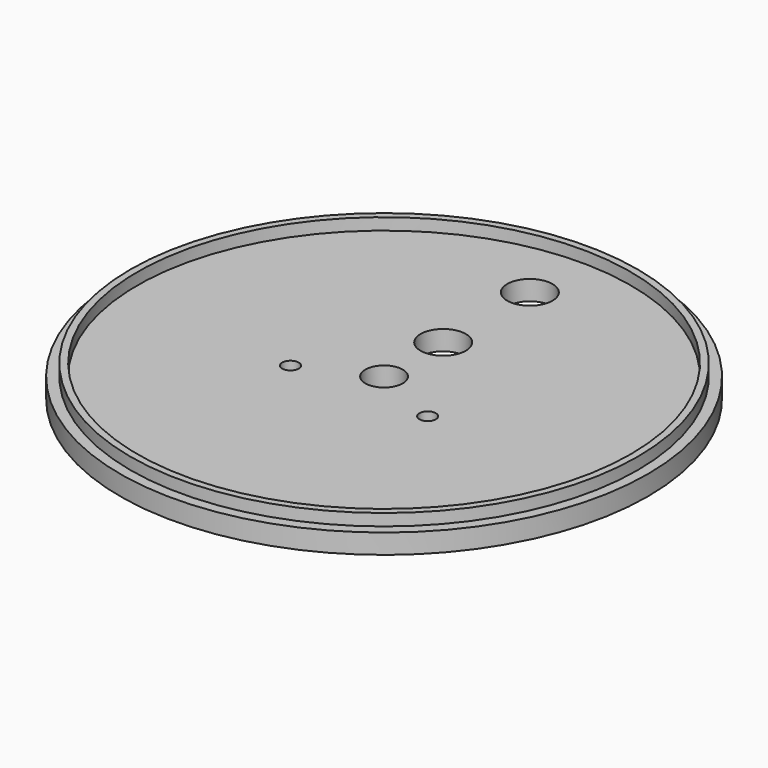
from build123d import *

# Parameters (mm, degrees)
F0_R      = 67
F1_DEPTH  = 5
F3_R      = 64.375
F3_R_2    = 62.625
F5_DEPTH  = 3
F7_R      = 2.1
F8_DEPTH  = 5.001
F6_R      = 5.75
F6_R_2    = 4.75
F9_DEPTH  = 5.001
F10_R     = 6.75
F10_R_2   = 5.75
F11_DEPTH = 0.5
F12_DEPTH = 0.5


with BuildPart() as f1:
    # F0 (on Top) → F1 (new body)
    with BuildSketch(Plane.XY):
        Circle(F0_R)
    extrude(amount=F1_DEPTH)

    # F3 (on face) → F5 (join)
    with BuildSketch(Plane.XY.offset(5)):
        Circle(F3_R)
        Circle(F3_R_2, mode=Mode.SUBTRACT)
    extrude(amount=F5_DEPTH)

    # F7 (on face) → F8 (cut, through all)
    with BuildSketch(Plane.XY.offset(5)):
        with Locations((17.4057390541, -7.9414527863)):
            Circle(F7_R)
        with Locations((-17.4057390541, -7.9414527863)):
            Circle(F7_R)
    extrude(amount=-F8_DEPTH, mode=Mode.SUBTRACT)

    # F6 (on face) → F9 (cut, through all)
    with BuildSketch(Plane.XY.offset(5)):
        with Locations((0, 46.25)):
            Circle(F6_R)
        with Locations((0, 18.75)):
            Circle(F6_R)
        Circle(F6_R_2)
    extrude(amount=-F9_DEPTH, mode=Mode.SUBTRACT)

    # F10 (on Top) → F11 (cut)
    with BuildSketch(Plane.XY):
        with Locations((0, 46.25)):
            Circle(F10_R)
        with Locations((0, 18.75)):
            Circle(F10_R)
        Circle(F10_R_2)
    extrude(amount=-F11_DEPTH, mode=Mode.SUBTRACT)

    # F10 (on Top) → F12 (cut)
    with BuildSketch(Plane.XY):
        with Locations((0, 46.25)):
            Circle(F10_R)
    extrude(amount=-F12_DEPTH, mode=Mode.SUBTRACT)


solid = f1.part
